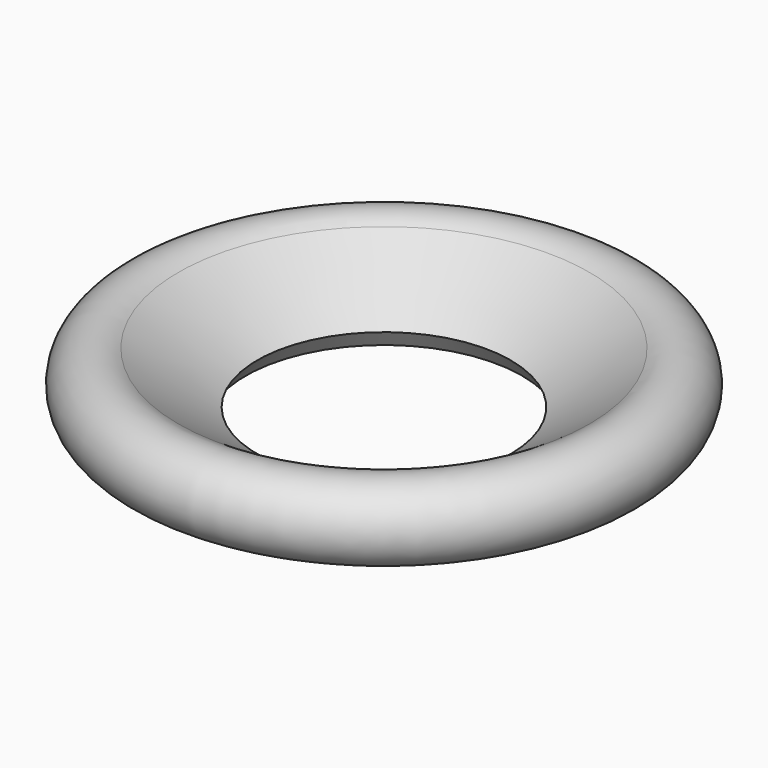
from build123d import *


with BuildPart() as f1:
    # F0 (on Front) → F1 (revolve)
    with BuildSketch(Plane.XZ):
        with BuildLine():
            Line((17.453777, 0), (28.575, 0))
            ThreePointArc((28.575, 0), (33.136648, 6.130994), (25.95344, 8.738532))
            Line((25.95344, 8.738532), (16.01336, 2.184633))
            Line((16.01336, 2.184633), (17.453777, 0))
        make_face()
    revolve(axis=Axis((0, 0, 4.678251), (0, 0, 1)))


solid = f1.part
